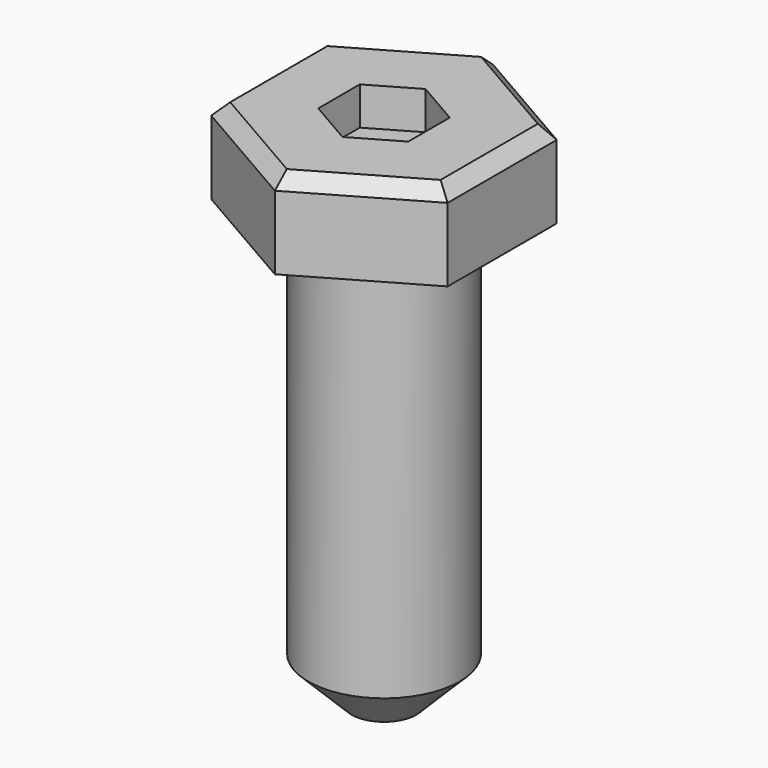
from build123d import *

# Parameters (mm, degrees)
F0_R     = 8.75
F1_DEPTH = 60
F2_DEPTH = 10
F3_SIZE  = 5
F5_DEPTH = 4.4
F6_SIZE  = 1.5


with BuildPart() as f1:
    # F0 (on Top) → F1 (new body)
    with BuildSketch(Plane.XY):
        Circle(F0_R)
    extrude(amount=-F1_DEPTH)

    # F0 (on Top) → F2 (join)
    with BuildSketch(Plane.XY):
        Polygon((13.656054, -7.884326), (13.656054, 7.884326), (0, 15.768653), (-13.656054, 7.884326), (-13.656054, -7.884326), (0, -15.768653), align=None)
        Circle(F0_R, mode=Mode.SUBTRACT)
        Circle(F0_R)
    extrude(amount=-F2_DEPTH)

    # F3
    f3_edges = [f1.edges().sort_by_distance(p)[0] for p in [
        (-8.75, 0, -60),
    ]]
    chamfer(f3_edges, length=F3_SIZE)

    # F4 (on face) → F5 (cut)
    with BuildSketch(Plane.XY):
        Polygon((5.196152, -3), (5.196152, 3), (0, 6), (-5.196152, 3), (-5.196152, -3), (0, -6), align=None)
    extrude(amount=-F5_DEPTH, mode=Mode.SUBTRACT)

    # F6
    f6_edges = [f1.edges().sort_by_distance(p)[0] for p in [
        (-6.828027, -11.826489, 0),
        (6.828027, -11.826489, 0),
        (13.656054, 0, 0),
        (6.828027, 11.826489, 0),
        (-6.828027, 11.826489, 0),
        (-13.656054, 0, 0),
    ]]
    chamfer(f6_edges, length=F6_SIZE)


solid = f1.part
